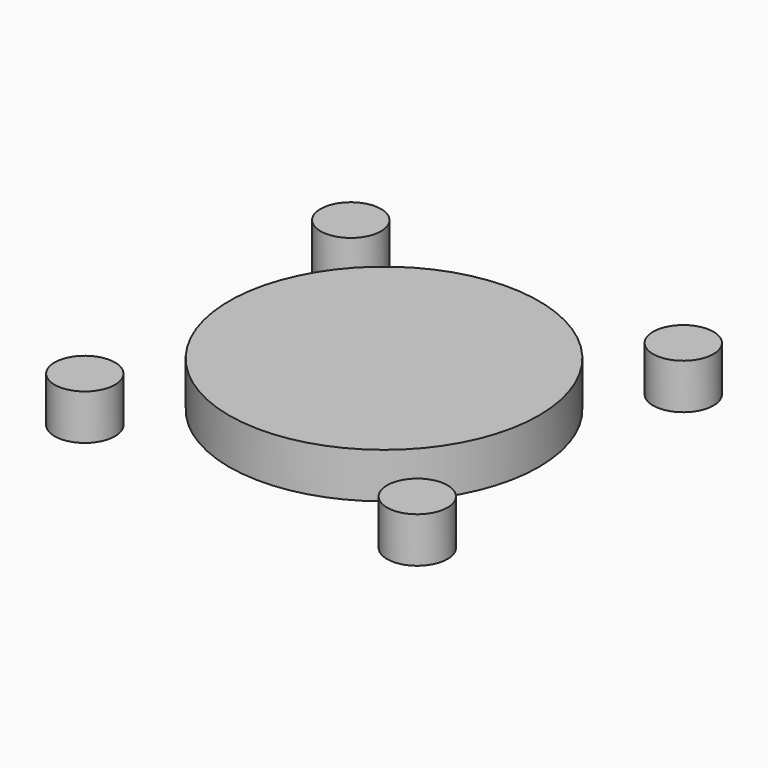
from build123d import *

# Parameters (mm, degrees)
CYLINDER004_R     = 2
CYLINDER004_DEPTH = 3
ARRAY_X_COUNT     = 2
ARRAY_X_PITCH     = 22
ARRAY_Y_COUNT     = 2
ARRAY_Y_PITCH     = 22
CYLINDER005_R     = 10.25
CYLINDER005_DEPTH = 3


with BuildPart() as array:
    # Cylinder004 → Cylinder004 (new body)
    with BuildSketch(Plane.XY):
        Circle(CYLINDER004_R)
    extrude(amount=CYLINDER004_DEPTH)

    # Array X: Array ×2


with BuildPart() as array_1:
    add(array.part)
    with Locations(*[(i * ARRAY_X_PITCH, 0, 0) for i in range(1, ARRAY_X_COUNT)]):
        add(array.part)

    # Array Y: Array ×2


with BuildPart() as array_2:
    add(array_1.part)
    with Locations(*[(0, i * ARRAY_Y_PITCH, 0) for i in range(1, ARRAY_Y_COUNT)]):
        add(array_1.part)


with BuildPart() as fusion001:
    # Cylinder005 → Cylinder005 (new body)
    with BuildSketch(Plane(origin=(11, 11, 0), x_dir=(1, 0, 0), z_dir=(0, 0, 1))):
        Circle(CYLINDER005_R)
    extrude(amount=CYLINDER005_DEPTH)

    # Fusion001: union Array
    add(array_2.part)


solid = fusion001.part
